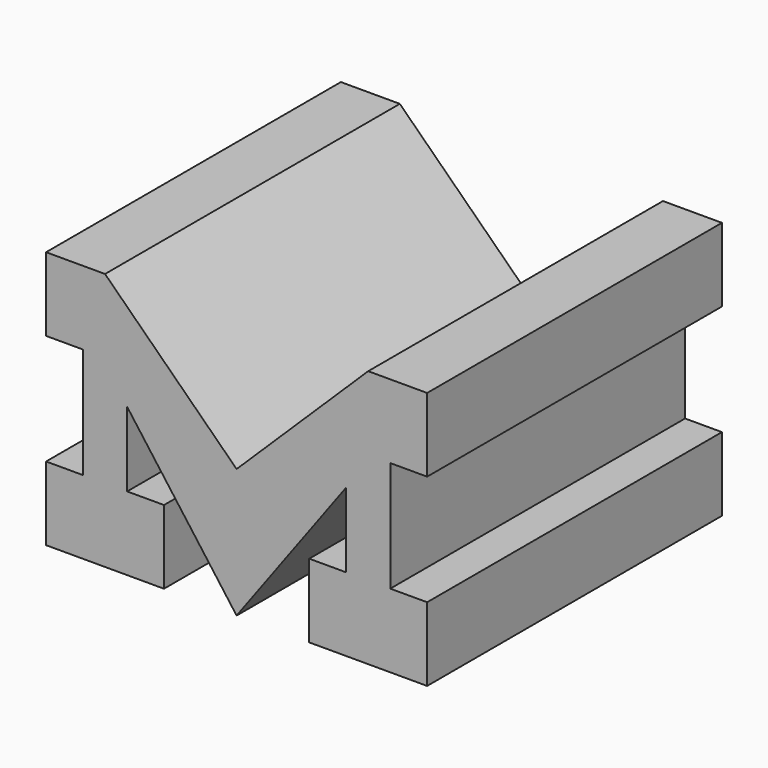
from build123d import *

# Parameters (mm, degrees)
F1_DEPTH = 1270
F2_DEPTH = 127
F3_DEPTH = 25.4


with BuildPart() as f1:
    # F0 (on Front) → F1 (new body)
    with BuildSketch(Plane.XZ):
        Polygon((127, 0), (0, 0), (0, -254), (406.4, -254), (406.4, 0), (279.4, 0), (279.4, 256.7683129114), (656.6807052125, -254), (1033.9614104249, 256.7683129114), (1033.9614104249, 0), (906.9614104249, 0), (906.9614104249, -254), (1313.3614104249, -254), (1313.3614104249, 0), (1186.3614104249, 0), (1186.3614104249, 381), (1313.3614104249, 381), (1313.3614104249, 635), (1110.1614104249, 635), (656.6807052125, 190.5), (203.2, 635), (0, 635), (0, 381), (127, 381), align=None)
    extrude(amount=F1_DEPTH)

    # F2 (add): a face of the model
    f2_faces = [f1.faces().sort_by_distance(p)[0] for p in [
        (656.6807052125, 0, 153.5673559102),
    ]]
    extrude(f2_faces, amount=-F2_DEPTH)

    # F0 (on Front) → F3 (join)
    with BuildSketch(Plane.XZ):
        Polygon((127, 0), (0, 0), (0, -254), (406.4, -254), (406.4, 0), (279.4, 0), (279.4, 256.7683129114), (656.6807052125, -254), (1033.9614104249, 256.7683129114), (1033.9614104249, 0), (906.9614104249, 0), (906.9614104249, -254), (1313.3614104249, -254), (1313.3614104249, 0), (1186.3614104249, 0), (1186.3614104249, 381), (1313.3614104249, 381), (1313.3614104249, 635), (1110.1614104249, 635), (656.6807052125, 190.5), (203.2, 635), (0, 635), (0, 381), (127, 381), align=None)
    extrude(amount=F3_DEPTH)


solid = f1.part
